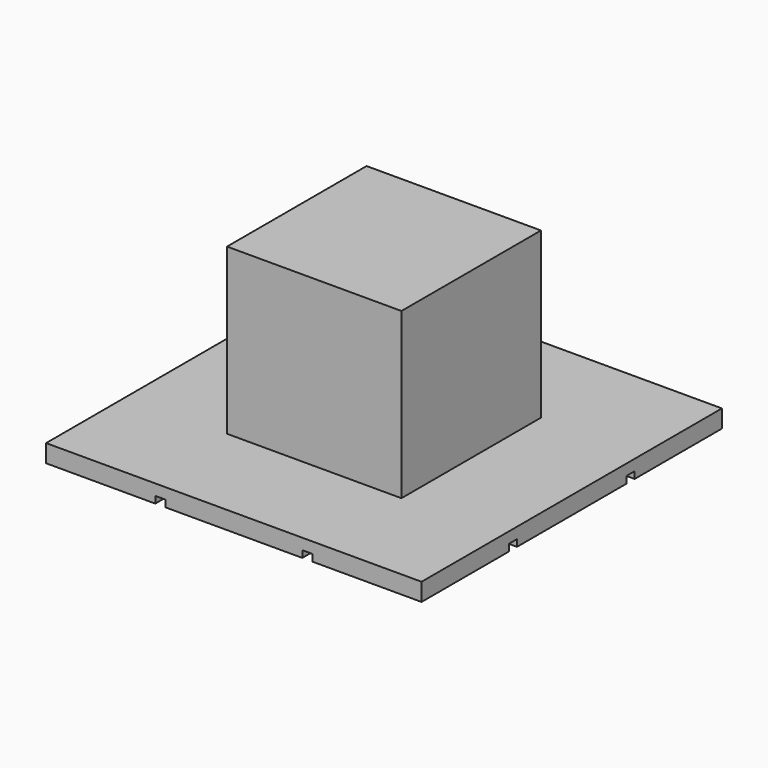
from build123d import *

# Parameters (mm, degrees)
F0_W     = 6.477
F0_H     = 6.477
F1_DEPTH = 6.477
F4_START = 6.1214
F3_W     = 13.9445995965
F3_H     = 13.9445995965
F4_DEPTH = 0.6604
F5_W     = 0.381
F5_H     = 0.8794372982
F6_DEPTH = 12.7
F7_W     = 0.381
F7_H     = 1.3506091439
F8_DEPTH = 12.7
F9_ANGLE = 180


with BuildPart() as f1:
    # F0 (on Top) → F1 (new body)
    with BuildSketch(Plane.XY):
        with Locations((-9.8426504992, 11.6166997607)):
            Rectangle(F0_W, F0_H)
    extrude(amount=F1_DEPTH)


with BuildPart() as f1_1:
    # F2: moved
    add(f1.part.moved(Location((9.84707, -11.61667, 0))))

    # F3 (on Top) → F4 (join)
    with BuildSketch(Plane.XY.offset(F4_START)):
        with Locations((0.0044195008, 2.97607e-05)):
            Rectangle(F3_W, F3_H)
    extrude(amount=F4_DEPTH)

    # F5 (on Front) → F6 (cut, symmetric)
    with BuildSketch(Plane.XZ):
        with Locations((-2.7305, 6.9675186491)):
            Rectangle(F5_W, F5_H)
        with Locations((2.7305, 6.9675186491)):
            Rectangle(F5_W, F5_H)
    extrude(amount=F6_DEPTH, both=True, mode=Mode.SUBTRACT)

    # F7 (on Right) → F8 (cut, symmetric)
    with BuildSketch(Plane.YZ):
        with Locations((-2.7305, 7.203104572)):
            Rectangle(F7_W, F7_H)
        with Locations((2.7305, 7.203104572)):
            Rectangle(F7_W, F7_H)
    extrude(amount=F8_DEPTH, both=True, mode=Mode.SUBTRACT)


with BuildPart() as f1_2:
    # F9: moved
    add(f1_1.part.rotate(Axis((-3.2340804992, 2.97607e-05, 0), (0, -1, 0)), F9_ANGLE))


solid = f1_2.part
